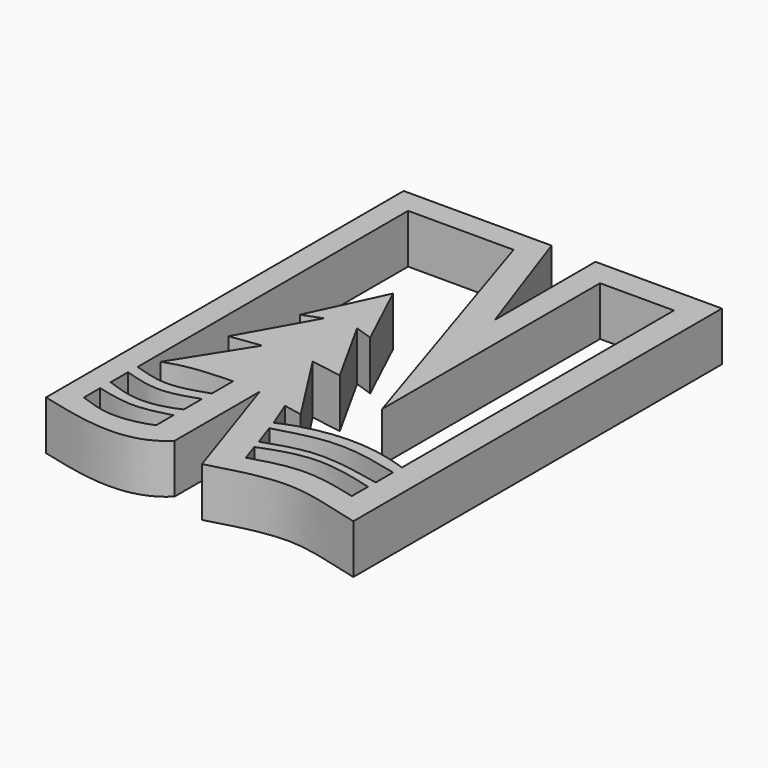
from build123d import *

# Parameters (mm, degrees)
F1_DEPTH = 25.4


with BuildPart() as f1:
    # F0 (on Top) → F1 (new body)
    with BuildSketch(Plane.XY):
        with BuildLine():
            Line((2.8403762262, 45.6520467997), (-73.6027508974, 45.6520467997))
            Line((-73.6027508974, 45.6520467997), (-73.6027508974, -185.4493916035))
            add(Edge.make_bspline(
                [(-9.3509247527, -182.7207505703), (-17.437708134, -190.6869860397), (-39.462107573, -194.4763575001), (-62.4702088535, -188.2325261831), (-73.6027508974, -185.4493916035)],
                knots=[0, 0, 0, 0, 0.4843647, 1, 1, 1, 1], degree=3))
            Line((-9.3509247527, -182.7207505703), (-9.3509247527, -127.6174634695))
            Line((-9.3509247527, -127.6174634695), (11.9979763404, -191.7036473751))
            add(Edge.make_bspline(
                [(90.9340977669, -192.5606280565), (78.2585442066, -189.655855298), (51.9474674394, -179.7068423852), (25.4845232477, -188.0636329791), (11.9979763404, -191.7036473751)],
                knots=[0, 0, 0, 0, 0.4967823227, 1, 1, 1, 1], degree=3))
            Line((90.9340977669, -192.5606280565), (90.9340977669, 45.6520467997))
            Line((90.9340977669, 45.6520467997), (25.5670342594, 45.6520467997))
            Line((25.5670342594, 45.6520467997), (25.5670342594, -19.4191858172))
            Line((25.5670342594, -19.4191858172), (2.8403762262, 45.6520467997))
        make_face()
        with BuildLine():
            Line((-61.6082288325, -176.0364919901), (-61.6082288325, -165.4586195946))
            add(Edge.make_bspline(
                [(-23.6730482429, -165.5816286802), (-29.6743388581, -167.1716020854), (-41.866855763, -170.422804665), (-54.9348358498, -167.1372714885), (-61.6082288325, -165.4586195946)],
                knots=[0, 0, 0, 0, 0.4892970389, 1, 1, 1, 1], degree=3))
            Line((-23.6730482429, -165.5816286802), (-23.6730482429, -176.7938733101))
            add(Edge.make_bspline(
                [(-61.6082288325, -176.0364919901), (-55.8519269533, -178.1175226352), (-44.0650777342, -182.250968639), (-30.3064212203, -179.3696731329), (-23.6730482429, -176.7938733101)],
                knots=[0, 0, 0, 0, 0.4842057013, 1, 1, 1, 1], degree=3))
        make_face(mode=Mode.SUBTRACT)
        with BuildLine():
            Line((-61.4957623184, -158.8420271873), (-61.4957623184, -147.6238518953))
            add(Edge.make_bspline(
                [(-23.566477932, -147.2548544407), (-29.712963668, -149.3360042131), (-42.0451974231, -153.5501506553), (-55.0127920336, -149.6146560989), (-61.4957623184, -147.6238518953)],
                knots=[0, 0, 0, 0, 0.494682972, 1, 1, 1, 1], degree=3))
            Line((-23.566477932, -147.2548544407), (-23.566477932, -158.9123904705))
            add(Edge.make_bspline(
                [(-61.4957623184, -158.8420271873), (-55.5822802874, -161.0065351502), (-43.5958322945, -165.2473219714), (-29.5886882908, -161.9094118541), (-23.566477932, -158.9123904705)],
                knots=[0, 0, 0, 0, 0.4898045376, 1, 1, 1, 1], degree=3))
        make_face(mode=Mode.SUBTRACT)
        with BuildLine():
            Line((22.3441086709, -176.2591153383), (19.1280748695, -166.8069213629))
            add(Edge.make_bspline(
                [(19.1280748695, -166.8069213629), (27.9156584293, -163.297533989), (45.8218010204, -157.4179008912), (66.4390050953, -162.4391177875), (76.7182558775, -165.3293818235)],
                knots=[0, 0, 0, 0, 0.4844139256, 1, 1, 1, 1], degree=3))
            Line((76.7182558775, -165.3293818235), (76.7182558775, -175.7957041264))
            add(Edge.make_bspline(
                [(22.3441086709, -176.2591153383), (30.8734351647, -173.63505248), (48.372189716, -168.6907809082), (67.1033187619, -173.3021776491), (76.7182558775, -175.7957041264)],
                knots=[0, 0, 0, 0, 0.4893730261, 1, 1, 1, 1], degree=3))
        make_face(mode=Mode.SUBTRACT)
        with BuildLine():
            add(Edge.make_bspline(
                [(17.680067569, -162.0491892099), (25.8568657938, -159.2836448096), (43.3363572549, -153.246674733), (65.3150252677, -158.0651620078), (76.8111720681, -160.4368239641)],
                knots=[0, 0, 0, 0, 0.4679630835, 1, 1, 1, 1], degree=3))
            Line((17.680067569, -162.0491892099), (13.6130254536, -150.2377683718))
            add(Edge.make_bspline(
                [(76.8111720681, -149.223998189), (65.8089509547, -146.5744464182), (44.0946442795, -141.1555049391), (23.7747255115, -147.4399738598), (13.6130254536, -150.2377683718)],
                knots=[0, 0, 0, 0, 0.5076708413, 1, 1, 1, 1], degree=3))
            Line((76.8111720681, -149.223998189), (76.8111720681, -160.4368239641))
        make_face(mode=Mode.SUBTRACT)
        with BuildLine():
            add(Edge.make_bspline(
                [(-61.3580606878, -141.6363418102), (-55.1243719971, -143.5797285758), (-42.5699592819, -147.4936358513), (-29.8592976922, -143.1950838215), (-23.4599076211, -141.0309076309)],
                knots=[0, 0, 0, 0, 0.4965336756, 1, 1, 1, 1], degree=3))
            Line((-61.3580606878, -141.6363418102), (-61.3580606878, 33.189624548))
            Line((-61.3580606878, 33.189624548), (-6.8358113058, 33.189624548))
            Line((-6.8358113058, 33.189624548), (38.6858433485, -108.5935905576))
            Line((38.6858433485, -108.5935905576), (38.6858433485, 32.2056338191))
            Line((38.6858433485, 32.2056338191), (76.8895372748, 32.2056338191))
            Line((76.8895372748, 32.2056338191), (76.8895372748, -143.5442268848))
            add(Edge.make_bspline(
                [(76.8895372748, -143.5442268848), (66.1581754684, -139.7765427828), (44.92542678, -135.6920583397), (22.2354233265, -140.7641023397), (11.9839739054, -145.3826874495)],
                knots=[0, 0, 0, 0, 0.4966206681, 1, 1, 1, 1], degree=3))
            Line((11.9839739054, -145.3826874495), (6.3145500608, -130.9114247561))
            Line((6.3145500608, -130.9114247561), (15.9579180181, -132.8547745943))
            Line((15.9579180181, -132.8547745943), (-9.0975156054, -93.8023552299))
            Line((-9.0975156054, -93.8023552299), (6.9675748236, -96.3511392474))
            Line((6.9675748236, -96.3511392474), (-13.3098065853, -59.8137304187))
            Line((-13.3098065853, -59.8137304187), (-4.043716006, -62.948577106))
            Line((-4.043716006, -62.948577106), (-20.9504030645, -27.0268172026))
            Line((-20.9504030645, -27.0268172026), (-38.7236736715, -65.0239139795))
            Line((-38.7236736715, -65.0239139795), (-29.1993748397, -61.4539980888))
            Line((-29.1993748397, -61.4539980888), (-49.4690351188, -97.7168679237))
            Line((-49.4690351188, -97.7168679237), (-33.7521508336, -95.6219658256))
            Line((-33.7521508336, -95.6219658256), (-56.8872727454, -132.2386860847))
            add(Edge.make_bspline(
                [(-56.8872727454, -132.2386860847), (-51.9440866881, -130.4241960282), (-41.8102623942, -127.6231875659), (-23.5047530606, -127.3379553592), (-23.4599076211, -127.2974461317)],
                knots=[0, 0, 0, 0, 0.4990520903, 0.9673944803, 0.9673944803, 0.9673944803, 0.9673944803], degree=3))
            Line((-23.4599076211, -127.2974461317), (-23.4599076211, -141.0309076309))
        make_face(mode=Mode.SUBTRACT)
    extrude(amount=F1_DEPTH)


solid = f1.part
